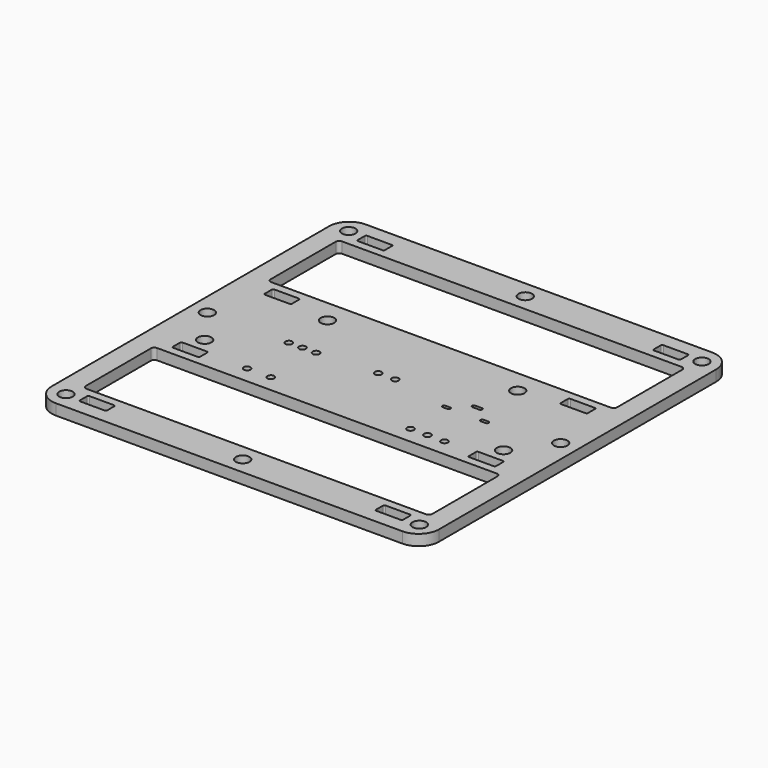
from build123d import *

# Parameters (mm, degrees)
F0_W      = 57
F0_H      = 57
F1_DEPTH  = 1.6
F4_R      = 0.5
F5_R      = 0.5
F6_R      = 0.5
F2_R      = 0.5
F7_DEPTH  = 4
F8_R      = 3
F9_R      = 1
F10_DEPTH = 25
F12_DEPTH = 5
F13_W     = 4
F13_H     = 1.7
F14_DEPTH = 25
F15_R     = 0.2


with BuildPart() as f1:
    # F0 (on Top) → F1 (new body)
    with BuildSketch(Plane.XY):
        with Locations((41.31729, 30.19701)):
            Rectangle(F0_W, F0_H)
    extrude(amount=F1_DEPTH)

    # F4 (on face) + F5 (on face) + F6 (on face) + F3 (on face) + F2 (on face) → F7 (cut)
    with BuildSketch(Plane.XY.offset(1.6)):
        with Locations((51.61729, 22.19701)):
            Circle(F4_R)
        with Locations((56.61729, 22.19701)):
            Circle(F4_R)
        with Locations((54.11729, 22.19701)):
            Circle(F4_R)
    with BuildSketch(Plane.XY.offset(1.6)):
        with Locations((40.06729, 30.69701)):
            Circle(F5_R)
        with Locations((42.56729, 30.69701)):
            Circle(F5_R)
    with BuildSketch(Plane.XY.offset(1.6)):
        with Locations((27.56729, 22.19701)):
            Circle(F6_R)
        with Locations((31.06729, 22.19701)):
            Circle(F6_R)
    with BuildSketch(Plane.XY.offset(1.6)):
        with BuildLine():
            ThreePointArc((53.81729, 31.34701), (53.56729, 31.09701), (53.81729, 30.84701))
            Line((53.81729, 30.84701), (54.81729, 30.84701))
            ThreePointArc((54.81729, 30.84701), (55.06729, 31.09701), (54.81729, 31.34701))
            Line((54.81729, 31.34701), (53.81729, 31.34701))
        make_face()
        with BuildLine():
            ThreePointArc((51.86729, 28.69701), (52.11729, 28.94701), (51.86729, 29.19701))
            Line((51.86729, 29.19701), (51.16729, 29.19701))
            ThreePointArc((51.16729, 29.19701), (50.91729, 28.94701), (51.16729, 28.69701))
            Line((51.16729, 28.69701), (51.86729, 28.69701))
        make_face()
        with BuildLine():
            Line((56.76729, 28.69701), (57.46729, 28.69701))
            ThreePointArc((57.46729, 28.69701), (57.71729, 28.94701), (57.46729, 29.19701))
            Line((57.46729, 29.19701), (56.76729, 29.19701))
            ThreePointArc((56.76729, 29.19701), (56.51729, 28.94701), (56.76729, 28.69701))
        make_face()
    with BuildSketch(Plane.XY.offset(1.6)):
        with Locations((27.31729, 30.19701)):
            Circle(F2_R)
        with Locations((29.31729, 30.19701)):
            Circle(F2_R)
        with Locations((31.31729, 30.19701)):
            Circle(F2_R)
    extrude(amount=-F7_DEPTH, mode=Mode.SUBTRACT)

    # F8
    f8_edges = [f1.edges().sort_by_distance(p)[0] for p in [
        (12.81729, 1.69701, 0.8),
        (69.81729, 1.69701, 0.8),
        (69.81729, 58.69701, 0.8),
        (12.81729, 58.69701, 0.8),
    ]]
    fillet(f8_edges, radius=F8_R)

    # F9 (on face) → F10 (cut)
    with BuildSketch(Plane.XY.offset(1.6)):
        with Locations((63.31729, 24.69701)):
            Circle(F9_R)
        with Locations((19.31729, 24.69701)):
            Circle(F9_R)
        with Locations((55.31729, 37.29701)):
            Circle(F9_R)
        with Locations((27.31729, 37.29701)):
            Circle(F9_R)
        with Locations((15.31729, 56.19701)):
            Circle(F9_R)
        with Locations((67.31729, 56.19701)):
            Circle(F9_R)
        with Locations((15.31729, 4.19701)):
            Circle(F9_R)
        with Locations((67.31729, 4.19701)):
            Circle(F9_R)
        with Locations((41.31729, 56.19701)):
            Circle(F9_R)
        with Locations((41.31729, 4.19701)):
            Circle(F9_R)
        with Locations((15.31729, 30.19701)):
            Circle(F9_R)
        with Locations((67.31729, 30.19701)):
            Circle(F9_R)
    extrude(amount=-F10_DEPTH, mode=Mode.SUBTRACT)

    # F11 (on face) → F12 (cut)
    with BuildSketch(Plane.XY.offset(1.6)):
        with BuildLine():
            ThreePointArc((66.81729, 19.19701), (66.670844, 19.550563), (66.31729, 19.69701))
            Line((66.31729, 19.69701), (16.31729, 19.69701))
            ThreePointArc((16.31729, 19.69701), (15.963737, 19.550563), (15.81729, 19.19701))
            Line((15.81729, 19.19701), (15.81729, 7.19701))
            ThreePointArc((15.81729, 7.19701), (15.963737, 6.843456), (16.31729, 6.69701))
            Line((16.31729, 6.69701), (66.31729, 6.69701))
            ThreePointArc((66.31729, 6.69701), (66.670844, 6.843456), (66.81729, 7.19701))
            Line((66.81729, 7.19701), (66.81729, 19.19701))
        make_face()
        with BuildLine():
            ThreePointArc((16.31729, 53.69701), (15.963737, 53.550563), (15.81729, 53.19701))
            Line((15.81729, 53.19701), (15.81729, 41.19701))
            ThreePointArc((15.81729, 41.19701), (15.963737, 40.843456), (16.31729, 40.69701))
            Line((16.31729, 40.69701), (66.31729, 40.69701))
            ThreePointArc((66.31729, 40.69701), (66.670844, 40.843456), (66.81729, 41.19701))
            Line((66.81729, 41.19701), (66.81729, 53.19701))
            ThreePointArc((66.81729, 53.19701), (66.670844, 53.550563), (66.31729, 53.69701))
            Line((66.31729, 53.69701), (16.31729, 53.69701))
        make_face()
    extrude(amount=-F12_DEPTH, mode=Mode.SUBTRACT)

    # F13 (on face) → F14 (cut)
    with BuildSketch(Plane.XY.offset(1.6)):
        with Locations((19.533351, 4.64701)):
            Rectangle(F13_W, F13_H)
        with Locations((63.101229, 4.64701)):
            Rectangle(F13_W, F13_H)
        with Locations((63.101229, 21.74701)):
            Rectangle(F13_W, F13_H)
        with Locations((19.533351, 21.74701)):
            Rectangle(F13_W, F13_H)
        with Locations((19.533351, 38.64701)):
            Rectangle(F13_W, F13_H)
        with Locations((19.533351, 55.74701)):
            Rectangle(F13_W, F13_H)
        with Locations((63.101229, 38.64701)):
            Rectangle(F13_W, F13_H)
        with Locations((63.101229, 55.74701)):
            Rectangle(F13_W, F13_H)
    extrude(amount=-F14_DEPTH, mode=Mode.SUBTRACT)

    # F15
    f15_edges = [f1.edges().sort_by_distance(p)[0] for p in [
        (17.533351, 56.59701, 0.8),
        (17.533351, 54.89701, 0.8),
        (21.533351, 54.89701, 0.8),
        (21.533351, 56.59701, 0.8),
        (21.533351, 39.49701, 0.8),
        (17.533351, 39.49701, 0.8),
        (17.533351, 37.79701, 0.8),
        (21.533351, 37.79701, 0.8),
        (65.101229, 54.89701, 0.8),
        (65.101229, 56.59701, 0.8),
        (61.101229, 56.59701, 0.8),
        (61.101229, 54.89701, 0.8),
        (61.101229, 37.79701, 0.8),
        (61.101229, 39.49701, 0.8),
        (65.101229, 39.49701, 0.8),
        (65.101229, 37.79701, 0.8),
        (21.533351, 20.89701, 0.8),
        (21.533351, 22.59701, 0.8),
        (17.533351, 22.59701, 0.8),
        (17.533351, 20.89701, 0.8),
        (61.101229, 20.89701, 0.8),
        (61.101229, 22.59701, 0.8),
        (65.101229, 22.59701, 0.8),
        (65.101229, 20.89701, 0.8),
        (65.101229, 3.79701, 0.8),
        (65.101229, 5.49701, 0.8),
        (61.101229, 5.49701, 0.8),
        (61.101229, 3.79701, 0.8),
        (17.533351, 3.79701, 0.8),
        (21.533351, 3.79701, 0.8),
        (21.533351, 5.49701, 0.8),
        (17.533351, 5.49701, 0.8),
    ]]
    fillet(f15_edges, radius=F15_R)


solid = f1.part
